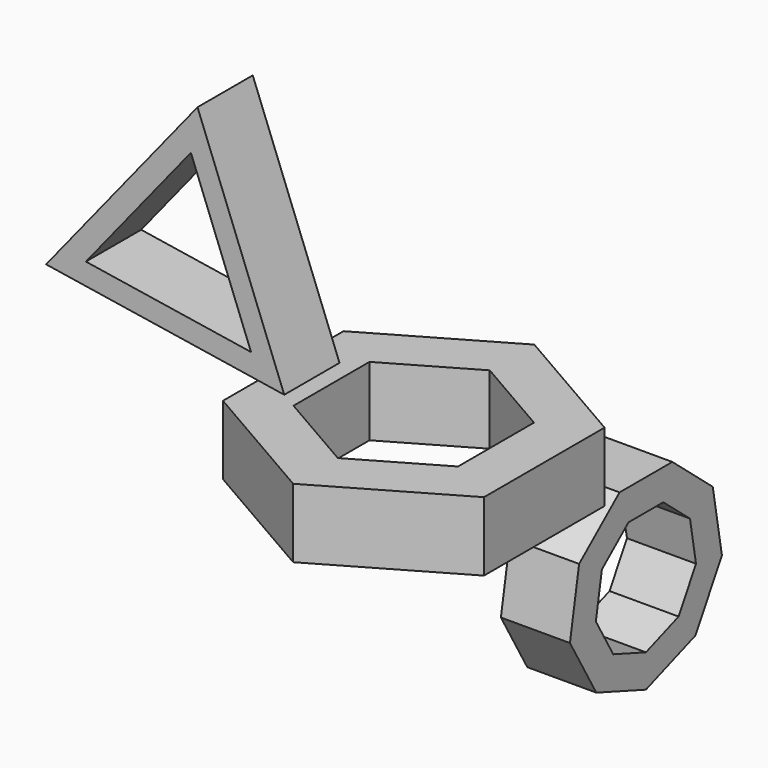
from build123d import *

# Parameters (mm, degrees)
F1_DEPTH = 25.4
F3_DEPTH = 25.4
F6_DEPTH = 25.4


with BuildPart() as f1:
    # F0 (on Top) → F1 (new body)
    with BuildSketch(Plane.XY):
        Polygon((-48.008017, 27.717441), (-48.008017, -27.717441), (0, -55.434883), (48.008017, -27.717441), (48.008017, 27.717441), (0, 55.434883), align=None)
        Polygon((0, -34.935104), (-30.254687, -17.467552), (-30.254687, 17.467552), (0, 34.935104), (30.254687, 17.467552), (30.254687, -17.467552), align=None, mode=Mode.SUBTRACT)
    extrude(amount=F1_DEPTH)


with BuildPart() as f3:
    # F2 (on Front) → F3 (new body)
    with BuildSketch(Plane.XZ):
        Polygon((-117.464183, -47.110847), (-29.857182, -60.850123), (-61.762121, 21.889403), align=None)
        Polygon((-42.082519, -50.985346), (-102.808366, -41.455783), (-64.1926, 6.369562), align=None, mode=Mode.SUBTRACT)
    extrude(amount=F3_DEPTH)


with BuildPart() as f3_1:
    # F4: moved
    add(f3.part.moved(Location((42.164, 18.796, 40.386))))


with BuildPart() as f6:
    # F5 (on Right) → F6 (new body)
    with BuildSketch(Plane.YZ):
        Polygon((87.138839, -17.220833), (62.869164, -17.220833), (44.277515, -32.82108), (40.06313, -56.722043), (52.197967, -77.740198), (75.004002, -86.040916), (97.810036, -77.740198), (109.944873, -56.722043), (105.730488, -32.82108), align=None)
        Polygon((54.756741, -38.871264), (67.007734, -28.59146), (83.000269, -28.59146), (95.251262, -38.871264), (98.028337, -54.620836), (90.032069, -68.470778), (75.004002, -73.940548), (59.975934, -68.470778), (51.979666, -54.620836), align=None, mode=Mode.SUBTRACT)
    extrude(amount=F6_DEPTH)


with BuildPart() as f3_2:
    # F7: moved
    add(f3_1.part.moved(Location((-21.336, -41.656, 68.834))))


solid = Compound([f1.part, f6.part, f3_2.part])
